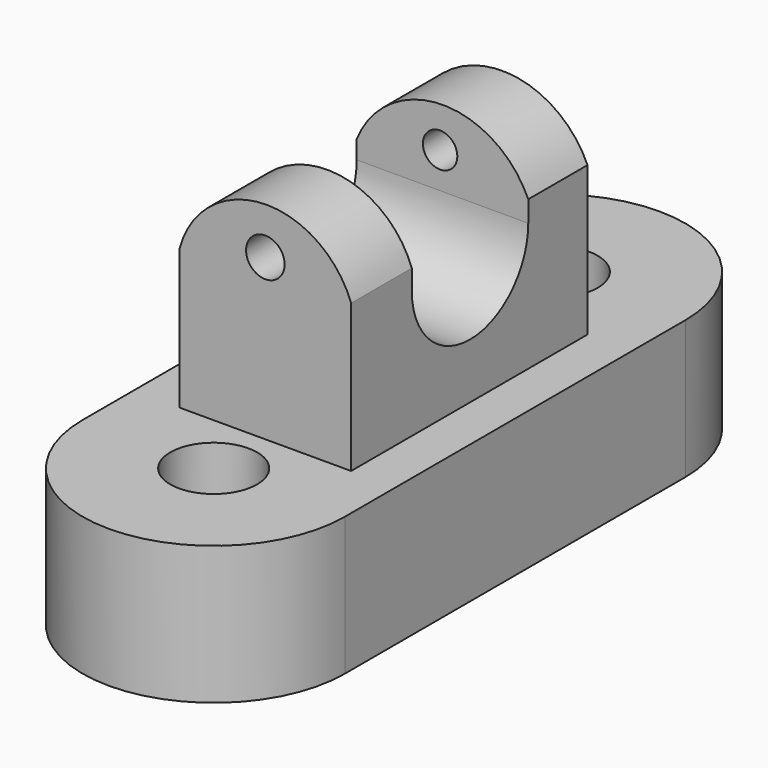
from build123d import *

# Parameters (mm, degrees)
F0_R      = 7.9822757018
F1_DEPTH  = 25.4
F2_W      = 31.536786817
F2_H      = 54.3133597821
F3_DEPTH  = 38.1
F5_DEPTH  = 35.56
F7_DEPTH  = 33.02
F9_DEPTH  = 33.02
F10_R     = 3.1631900108
F11_DEPTH = 33.02
F12_R     = 3.540896841
F13_DEPTH = 33.02


with BuildPart() as f1:
    # F0 (on Top) → F1 (new body)
    with BuildSketch(Plane.XY):
        with BuildLine():
            Line((24.3826080114, -38.690969348), (24.3826080114, 39.5669899881))
            ThreePointArc((24.3826080114, 39.5669899881), (0.2920059487, 63.6575920507), (-23.7985961139, 39.5669899881))
            Line((-23.7985961139, 39.5669899881), (-23.7985961139, -38.690969348))
            ThreePointArc((-23.7985961139, -38.690969348), (0.2920059487, -62.7815714106), (24.3826080114, -38.690969348))
        make_face()
        with Locations((0.2920059487, -38.690969348)):
            Circle(F0_R, mode=Mode.SUBTRACT)
        with Locations((0.2920059487, 39.5669899881)):
            Circle(F0_R, mode=Mode.SUBTRACT)
    extrude(amount=F1_DEPTH)

    # F2 (on face) → F3 (join)
    with BuildSketch(Plane.XY.offset(25.4)):
        with Locations((0.4380107857, 0.1460043713)):
            Rectangle(F2_W, F2_H)
    extrude(amount=F3_DEPTH)

    # F4 (on face) → F5 (cut)
    with BuildSketch(Plane.YZ.offset(16.2064041942)):
        with BuildLine():
            Line((13.6914392933, 48.9439629018), (13.6914392933, 63.5))
            Line((13.6914392933, 63.5), (-13.0694909021, 63.5))
            Line((-13.0694909021, 63.5), (-13.0694909021, 48.9439629018))
            ThreePointArc((-13.0694909021, 48.9439629018), (0.3109741956, 35.5634978041), (13.6914392933, 48.9439629018))
        make_face()
    extrude(amount=-F5_DEPTH, mode=Mode.SUBTRACT)

    # F6 (on face) → F7 (cut)
    with BuildSketch(Plane.XZ.offset(27.0106755197)):
        with BuildLine():
            ThreePointArc((-15.3303826228, 51.122944802), (-0.0918545456, 63.4173583867), (16.2064041942, 52.5669157505))
            Line((16.2064041942, 52.5669157505), (16.2064041942, 63.5))
            Line((16.2064041942, 63.5), (-15.3303826228, 63.5))
            Line((-15.3303826228, 63.5), (-15.3303826228, 51.122944802))
        make_face()
    extrude(amount=-F7_DEPTH, mode=Mode.SUBTRACT)

    # F8 (on face) → F9 (cut)
    with BuildSketch(Plane(origin=(0, 27.3026842624, 0), x_dir=(-1, 0, 0), z_dir=(0, 1, 0))):
        with BuildLine():
            ThreePointArc((-16.2064041942, 52.8267547488), (-0.2710597584, 62.9963273127), (15.3303826228, 52.3215718567))
            Line((15.3303826228, 52.3215718567), (15.3303826228, 63.5))
            Line((15.3303826228, 63.5), (-16.2064041942, 63.5))
            Line((-16.2064041942, 63.5), (-16.2064041942, 52.8267547488))
        make_face()
    extrude(amount=-F9_DEPTH, mode=Mode.SUBTRACT)

    # F10 (on face) → F11 (cut)
    with BuildSketch(Plane(origin=(0, 27.3026842624, 0), x_dir=(-1, 0, 0), z_dir=(0, 1, 0))):
        with Locations((0, 55.5282048881)):
            Circle(F10_R)
    extrude(amount=-F11_DEPTH, mode=Mode.SUBTRACT)

    # F12 (on face) → F13 (cut)
    with BuildSketch(Plane.XZ.offset(27.0106755197)):
        with Locations((0.4380107857, 54.8420138657)):
            Circle(F12_R)
    extrude(amount=-F13_DEPTH, mode=Mode.SUBTRACT)


solid = f1.part
